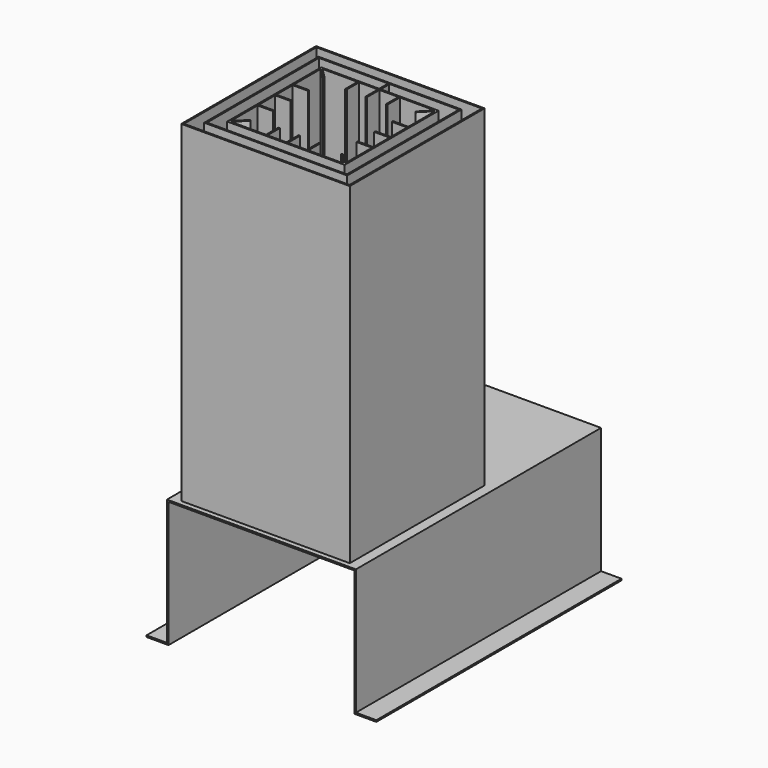
from build123d import *

# Parameters (mm, degrees)
F3_DEPTH = 600
F5_DEPTH = 250.001
F6_DEPTH = 650
F4_W     = 274
F4_H     = 274
F7_DEPTH = 650
F4_W_2   = 330
F4_H_2   = 330
F8_DEPTH = 650


with BuildPart() as f3:
    # F2 (on Front) → F3 (new body)
    with BuildSketch(Plane.XZ):
        Polygon((-182, -247), (-182, 0), (182, 0), (182, -247), (225, -247), (225, -244), (185, -244), (185, 3), (-185, 3), (-185, -244), (-225, -244), (-225, -247), align=None)
    extrude(amount=-F3_DEPTH)

    # F4 (on face) → F5 (cut, through all)
    with BuildSketch(Plane.XY.offset(3)):
        Polygon((140, 315), (140, 185), (162, 185), (162, 337), (-162, 337), (-162, 185), (-140, 185), (-140, 315), align=None)
        Polygon((90.7867965644, 86.3345237792), (112, 65.1213203436), (112, 130.5), (82, 130.5), (82, 133.5), (112, 133.5), (112, 173.5), (82, 173.5), (82, 175), (-82, 175), (-82, 173.5), (-112, 173.5), (-112, 133.5), (-82, 133.5), (-82, 130.5), (-112, 130.5), (-112, 65.1213203436), (-90.7867965644, 86.3345237792), (-88.6654762208, 84.2132034356), (-109.8786796564, 63), (-41.5, 63), (-41.5, 93), (-38.5, 93), (-38.5, 63), (-1.5, 63), (-1.5, 93), (1.5, 93), (1.5, 63), (38.5, 63), (38.5, 93), (41.5, 93), (41.5, 63), (109.8786796564, 63), (88.6654762208, 84.2132034356), align=None)
    extrude(amount=-F5_DEPTH, mode=Mode.SUBTRACT)


with BuildPart() as f6:
    # F4 (on face) → F6 (new body)
    with BuildSketch(Plane.XY.offset(3)):
        Polygon((-115, 60), (115, 60), (115, 290), (1.5, 290), (1.5, 310), (-1.5, 310), (-1.5, 290), (-115, 290), align=None)
        Polygon((112, 130.5), (112, 65.1213203436), (90.7867965644, 86.3345237792), (88.6654762208, 84.2132034356), (109.8786796564, 63), (41.5, 63), (41.5, 93), (38.5, 93), (38.5, 63), (1.5, 63), (1.5, 93), (-1.5, 93), (-1.5, 63), (-38.5, 63), (-38.5, 93), (-41.5, 93), (-41.5, 63), (-109.8786796564, 63), (-88.6654762208, 84.2132034356), (-90.7867965644, 86.3345237792), (-112, 65.1213203436), (-112, 130.5), (-82, 130.5), (-82, 133.5), (-112, 133.5), (-112, 173.5), (-82, 173.5), (-82, 175), (-82, 176.5), (-112, 176.5), (-112, 216.5), (-82, 216.5), (-82, 219.5), (-112, 219.5), (-112, 284.8786796564), (-90.7867965644, 263.6654762208), (-88.6654762208, 265.7867965644), (-109.8786796564, 287), (-41.5, 287), (-41.5, 257), (-38.5, 257), (-38.5, 287), (-1.5, 287), (-1.5, 257), (1.5, 257), (1.5, 287), (38.5, 287), (38.5, 257), (41.5, 257), (41.5, 287), (109.8786796564, 287), (88.6654762208, 265.7867965644), (90.7867965644, 263.6654762208), (112, 284.8786796564), (112, 219.5), (82, 219.5), (82, 216.5), (112, 216.5), (112, 176.5), (82, 176.5), (82, 175), (82, 173.5), (112, 173.5), (112, 133.5), (82, 133.5), (82, 130.5), align=None, mode=Mode.SUBTRACT)
    extrude(amount=F6_DEPTH)


with BuildPart() as f7:
    # F4 (on face) → F7 (new body)
    with BuildSketch(Plane.XY.offset(3)):
        Polygon((-140, 35), (140, 35), (140, 185), (140, 315), (-140, 315), (-140, 185), align=None)
        with Locations((0, 175)):
            Rectangle(F4_W, F4_H, mode=Mode.SUBTRACT)
    extrude(amount=F7_DEPTH)


with BuildPart() as f8:
    # F4 (on face) → F8 (new body)
    with BuildSketch(Plane.XY.offset(3)):
        with Locations((0, 175)):
            Rectangle(F4_W_2, F4_H_2)
        Polygon((162, 337), (162, 185), (162, 13), (-162, 13), (-162, 185), (-162, 337), align=None, mode=Mode.SUBTRACT)
    extrude(amount=F8_DEPTH)


solid = Compound([f3.part, f6.part, f7.part, f8.part])
